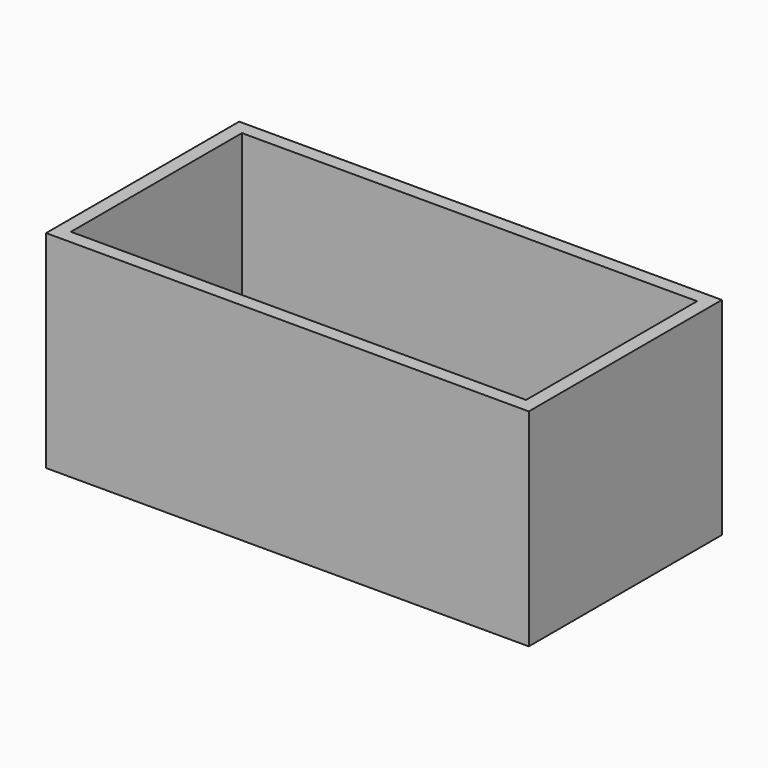
from build123d import *

# Parameters (mm, degrees)
F0_W     = 177.8
F0_H     = 88.9
F0_W_2   = 167.64
F0_H_2   = 78.74
F1_DEPTH = 76.2
F0_W_3   = 129.54
F0_H_3   = 35.56
F2_DEPTH = 5.08


with BuildPart() as f1:
    # F0 (on Top) → F1 (new body)
    with BuildSketch(Plane.XY):
        with Locations((31.002339, -9.105083)):
            Rectangle(F0_W, F0_H)
        with Locations((31.002339, -9.105083)):
            Rectangle(F0_W_2, F0_H_2, mode=Mode.SUBTRACT)
    extrude(amount=F1_DEPTH)

    # F0 (on Top) → F2 (join)
    with BuildSketch(Plane.XY):
        with Locations((31.002339, -9.105083)):
            Rectangle(F0_W, F0_H)
        with Locations((31.002339, -9.105083)):
            Rectangle(F0_W_2, F0_H_2, mode=Mode.SUBTRACT)
        with Locations((31.002339, -9.105083)):
            Rectangle(F0_W_2, F0_H_2)
        with Locations((31.002339, -9.105083)):
            Rectangle(F0_W_3, F0_H_3, mode=Mode.SUBTRACT)
    extrude(amount=F2_DEPTH)


solid = f1.part
